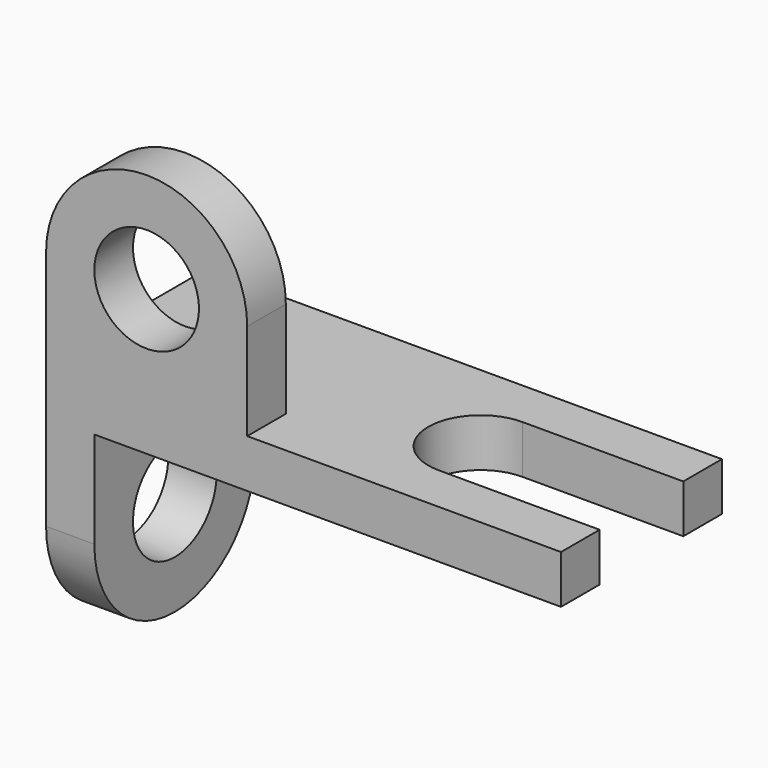
from build123d import *

# Parameters (mm, degrees)
F1_DEPTH = 6
F3_DEPTH = 6
F4_W     = 25
F4_H     = 12
F5_DEPTH = 6
F6_D     = 13


with BuildPart() as f1:
    # F0 (on Top) → F1 (new body)
    with BuildSketch(Plane.XY):
        with BuildLine():
            Line((-32, -12.5), (32, -12.5))
            Line((32, -12.5), (32, -6.5))
            Line((32, -6.5), (12, -6.5))
            ThreePointArc((12, -6.5), (5.5, 0), (12, 6.5))
            Line((12, 6.5), (32, 6.5))
            Line((32, 6.5), (32, 12.5))
            Line((32, 12.5), (-32, 12.5))
            Line((-32, 12.5), (-32, -12.5))
        make_face()
    extrude(amount=F1_DEPTH)

    # F2 (on face) → F3 (join)
    with BuildSketch(Plane(origin=(-32, 0, 0), x_dir=(0, -1, 0), z_dir=(-1, 0, 0))):
        with BuildLine():
            ThreePointArc((-12.5, -12), (0, -24.5), (12.5, -12))
            Line((12.5, -12), (6.5, -12))
            ThreePointArc((6.5, -12), (0, -18.5), (-6.5, -12))
            Line((-6.5, -12), (-12.5, -12))
        make_face()
        with BuildLine():
            Line((6.5, -12), (12.5, -12))
            ThreePointArc((12.5, -12), (10, -4.5), (3.5, 0))
            Line((3.5, 0), (-3.5, 0))
            ThreePointArc((-3.5, 0), (-10, -4.5), (-12.5, -12))
            Line((-12.5, -12), (-6.5, -12))
            ThreePointArc((-6.5, -12), (0, -5.5), (6.5, -12))
        make_face()
        with BuildLine():
            Line((12.5, -12), (12.5, 0))
            Line((12.5, 0), (3.5, 0))
            ThreePointArc((3.5, 0), (10, -4.5), (12.5, -12))
        make_face()
        with BuildLine():
            Line((-3.5, 0), (-12.5, 0))
            Line((-12.5, 0), (-12.5, -12))
            ThreePointArc((-12.5, -12), (-10, -4.5), (-3.5, 0))
        make_face()
    extrude(amount=-F3_DEPTH)

    # F4 (on face) → F5 (join)
    with BuildSketch(Plane.XZ.offset(12.5)):
        with Locations((-19.5, 12)):
            Rectangle(F4_W, F4_H)
        with BuildLine():
            ThreePointArc((-7, 18), (-19.5, 30.5), (-32, 18))
            Line((-32, 18), (-7, 18))
        make_face()
    extrude(amount=-F5_DEPTH)

    # F6 (through all)
    with Locations(Plane.XZ.offset(12.5)):
        with Locations((-19.5, 18)):
            Hole(F6_D / 2)


solid = f1.part
